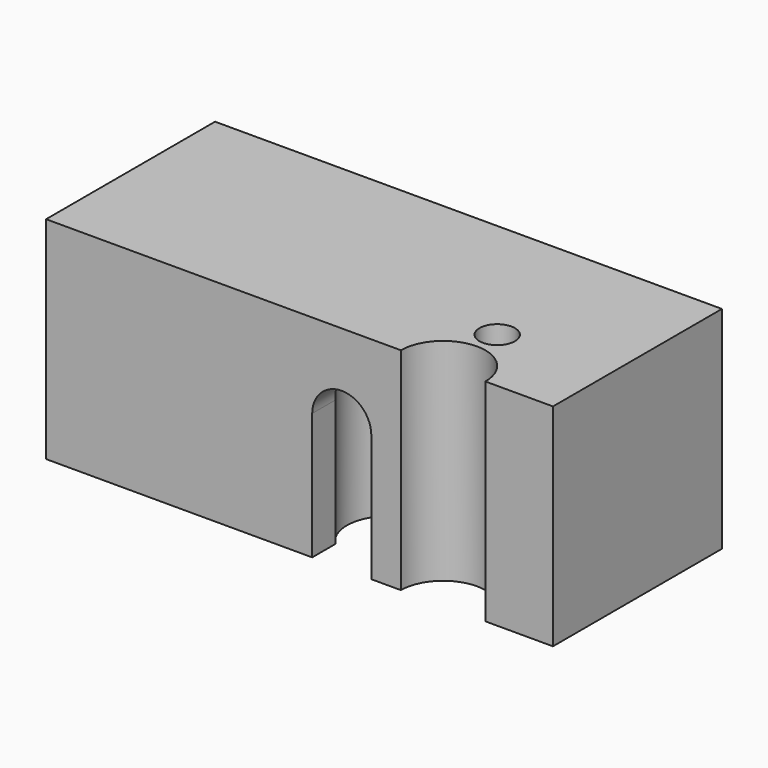
from build123d import *

# Parameters (mm, degrees)
F0_W      = 25
F0_H      = 25
F1_DEPTH  = 30
F3_DEPTH  = 25.001
F4_R      = 2.1
F5_DEPTH  = 25.001
F6_R      = 5
F7_DEPTH  = 22
F9_DEPTH  = 7
F10_R     = 2.6
F11_DEPTH = 15


with BuildPart() as f1:
    # F0 (on Right) → F1 (new body, symmetric)
    with BuildSketch(Plane.YZ):
        Rectangle(F0_W, F0_H)
    extrude(amount=F1_DEPTH, both=True)

    # F2 (on face) → F3 (cut, through all)
    with BuildSketch(Plane.XY.offset(12.5)):
        with BuildLine():
            Line((12, -12.5), (22, -12.5))
            ThreePointArc((22, -12.5), (17, -7.5), (12, -12.5))
        make_face()
    extrude(amount=-F3_DEPTH, mode=Mode.SUBTRACT)

    # F4 (on face) → F5 (cut, through all)
    with BuildSketch(Plane.XY.offset(12.5)):
        with Locations((17, -4.5)):
            Circle(F4_R)
    extrude(amount=-F5_DEPTH, mode=Mode.SUBTRACT)

    # F6 (on face) → F7 (cut)
    with BuildSketch(Plane(origin=(0, 0, -12.5), x_dir=(1, 0, 0), z_dir=(0, 0, -1))):
        with Locations((5, 5.5)):
            Circle(F6_R)
    extrude(amount=-F7_DEPTH, mode=Mode.SUBTRACT)

    # F8 (on face) → F9 (cut)
    with BuildSketch(Plane.XZ.offset(12.5)):
        with BuildLine():
            Line((1.5, -12.5), (8.5, -12.5))
            Line((8.5, -12.5), (8.5, 2.5))
            ThreePointArc((8.5, 2.5), (5, 6), (1.5, 2.5))
            Line((1.5, 2.5), (1.5, -12.5))
        make_face()
    extrude(amount=-F9_DEPTH, mode=Mode.SUBTRACT)

    # F10 (on face) → F11 (cut)
    with BuildSketch(Plane(origin=(0, 0, -12.5), x_dir=(1, 0, 0), z_dir=(0, 0, -1))):
        with Locations((17, 4.5)):
            Circle(F10_R)
    extrude(amount=-F11_DEPTH, mode=Mode.SUBTRACT)


with BuildPart() as f12_1:
    # F12: copy of F1
    add(f1.part)


solid = f1.part
